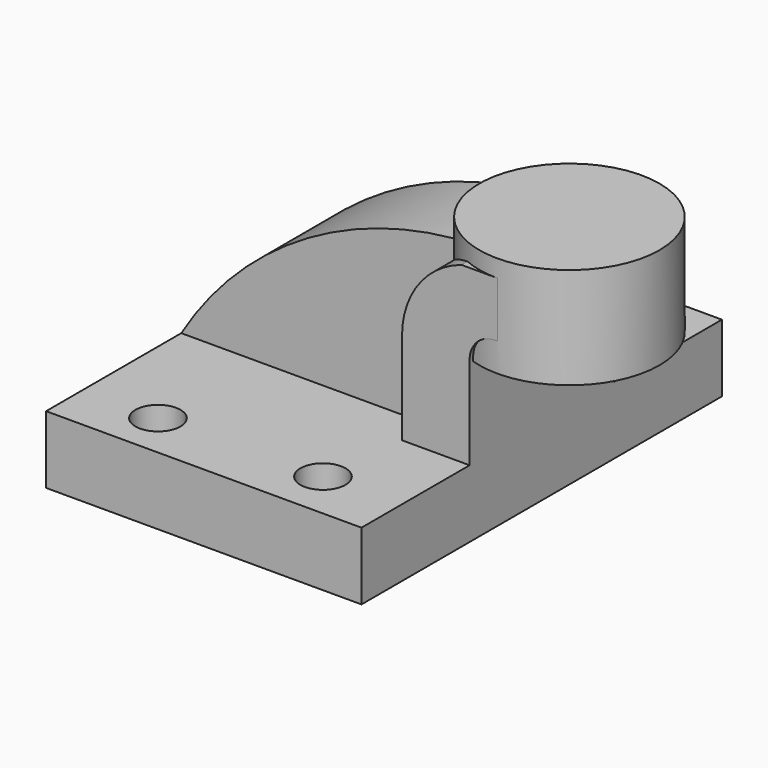
from build123d import *

# Parameters (mm, degrees)
F1_DEPTH        = 63.5
F2_DEPTH        = 15.875
F3_DEPTH        = 63.5
F0_W            = 19.05
F0_H            = 17.5050515682
F4_DEPTH        = 25.4
F5_DEPTH        = 25.4
F6_DEPTH        = 25.4
F7_DEPTH        = 12.7
F10_D           = 12.7
F10_ON_F0_D     = 12.7
F10_ON_F0_DEPTH = 63.501


with BuildPart() as f1:
    # F0 (on Front) → F1 (new body)
    with BuildSketch(Plane.XZ):
        Polygon((-36.0317155719, 0), (-36.0317155719, -19.05), (52.8682844281, -19.05), (52.8682844281, 0), (33.8182844281, 0), align=None)
    extrude(amount=F1_DEPTH)

    # F0 (on Front) → F2 (join)
    with BuildSketch(Plane.XZ):
        with BuildLine():
            ThreePointArc((50.590518862, 48.9809869127), (0.8347438774, 35.8877863894), (-36.0317155719, 0))
            Line((-36.0317155719, 0), (33.8182844281, 0))
            Line((33.8182844281, 0), (33.8182844281, 17.5050515682))
            Line((33.8182844281, 17.5050515682), (33.8182844281, 25.9368028492))
            ThreePointArc((33.8182844281, 25.9368028492), (38.4552849671, 40.1876121864), (50.590518862, 48.9809869127))
        make_face()
    extrude(amount=F2_DEPTH)

    # F0 (on Front) → F3 (join)
    with BuildSketch(Plane.XZ):
        Polygon((-36.0317155719, 0), (-36.0317155719, -19.05), (52.8682844281, -19.05), (52.8682844281, 0), (33.8182844281, 0), align=None)
    extrude(amount=-F3_DEPTH)

    # F0 (on Front) → F4 (join)
    with BuildSketch(Plane.XZ):
        with BuildLine():
            Line((60.4371747272, 48.9809869127), (50.590518862, 48.9809869127))
            ThreePointArc((50.590518862, 48.9809869127), (38.4552849671, 40.1876121864), (33.8182844281, 25.9368028492))
            Line((33.8182844281, 25.9368028492), (33.8182844281, 17.5050515682))
            Line((33.8182844281, 17.5050515682), (52.8682844281, 17.5050515682))
            Line((52.8682844281, 17.5050515682), (52.8682844281, 26.1928199722))
            ThreePointArc((52.8682844281, 26.1928199722), (54.9646325027, 31.2538519254), (60.0256644559, 33.3502))
            Line((60.0256644559, 33.3502), (60.6846340656, 33.3502))
            Line((60.6846340656, 33.3502), (60.6846340656, 48.9809869127))
            Line((60.6846340656, 48.9809869127), (60.4371747272, 48.9809869127))
        make_face()
        with Locations((43.3432844281, 8.7525257841)):
            Rectangle(F0_W, F0_H)
    extrude(amount=F4_DEPTH)

    # F0 (on Front) → F5 (join)
    with BuildSketch(Plane.XZ):
        with BuildLine():
            Line((60.4371747272, 48.9809869127), (50.590518862, 48.9809869127))
            ThreePointArc((50.590518862, 48.9809869127), (38.4552849671, 40.1876121864), (33.8182844281, 25.9368028492))
            Line((33.8182844281, 25.9368028492), (33.8182844281, 17.5050515682))
            Line((33.8182844281, 17.5050515682), (52.8682844281, 17.5050515682))
            Line((52.8682844281, 17.5050515682), (52.8682844281, 26.1928199722))
            ThreePointArc((52.8682844281, 26.1928199722), (54.9646325027, 31.2538519254), (60.0256644559, 33.3502))
            Line((60.0256644559, 33.3502), (60.6846340656, 33.3502))
            Line((60.6846340656, 33.3502), (60.6846340656, 48.9809869127))
            Line((60.6846340656, 48.9809869127), (60.4371747272, 48.9809869127))
        make_face()
        with Locations((43.3432844281, 8.7525257841)):
            Rectangle(F0_W, F0_H)
    extrude(amount=-F5_DEPTH)

    # F0 (on Front) → F6 (join)
    with BuildSketch(Plane.XZ):
        with Locations((43.3432844281, 8.7525257841)):
            Rectangle(F0_W, F0_H)
    extrude(amount=-F6_DEPTH)

    # F0 (on Front) → F7 (join)
    with BuildSketch(Plane.XZ):
        with BuildLine():
            ThreePointArc((50.590518862, 48.9809869127), (0.8347438774, 35.8877863894), (-36.0317155719, 0))
            Line((-36.0317155719, 0), (33.8182844281, 0))
            Line((33.8182844281, 0), (33.8182844281, 17.5050515682))
            Line((33.8182844281, 17.5050515682), (33.8182844281, 25.9368028492))
            ThreePointArc((33.8182844281, 25.9368028492), (38.4552849671, 40.1876121864), (50.590518862, 48.9809869127))
        make_face()
    extrude(amount=-F7_DEPTH)

    # F0 (on Front) → F8 (revolve)
    with BuildSketch(Plane.XZ):
        Polygon((60.6846340656, 53.8622255534), (60.6846340656, 48.9809869127), (60.6846340656, 33.3502), (60.8685202897, 33.3502), (60.8685202897, 25.2872255534), (86.0846340656, 25.2872255534), (86.0846340656, 53.8622255534), align=None)
    revolve(axis=Axis((60.6846340656, 0, 39.5747255534), (0, 0, -1)))

    # F10 (through all)
    with Locations(Plane.XY):
        with Locations((-13.4519258065, 50.5625051313), (34.9686927695, 50.6009981846), (31.0349383496, -49.7729142204), (-14.7181544946, -50.7195290418)):
            Hole(F10_D / 2)

    # F10 on F0 (through all, one way)
    with BuildSketch(Plane.XZ):
        with Locations((60.8685202897, 33.3502)):
            Circle(F10_ON_F0_D / 2)
    extrude(amount=-F10_ON_F0_DEPTH, mode=Mode.SUBTRACT)


solid = f1.part
